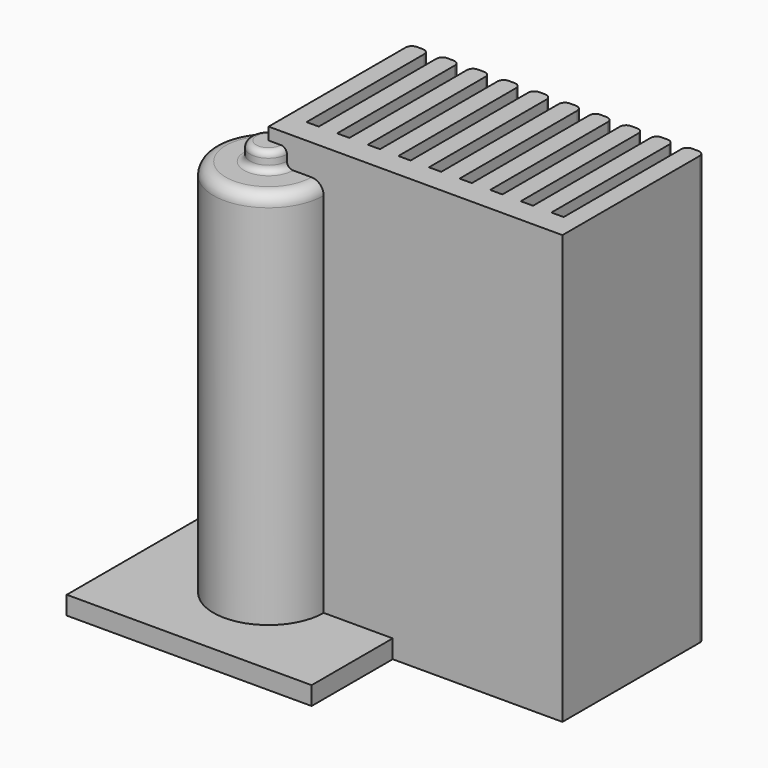
from build123d import *

# Parameters (mm, degrees)
F0_R     = 9
F1_DEPTH = 65
F2_R     = 2
F3_R     = 3
F4_DEPTH = 3
F5_R     = 1
F6_W     = 40
F6_H     = 40
F7_DEPTH = 3
F9_DEPTH = 70


with BuildPart() as f1:
    # F0 (on Top) → F1 (new body)
    with BuildSketch(Plane.XY):
        Circle(F0_R)
    extrude(amount=F1_DEPTH)

    # F2
    f2_edges = [f1.edges().sort_by_distance(p)[0] for p in [
        (-9, 0, 0),
        (-9, 0, 65),
    ]]
    fillet(f2_edges, radius=F2_R)

    # F3 (on face) → F4 (join)
    with BuildSketch(Plane.XY.offset(65)):
        Circle(F3_R)
    extrude(amount=F4_DEPTH)

    # F5
    f5_edges = [f1.edges().sort_by_distance(p)[0] for p in [
        (3, 0, 66.5),
        (-3, 0, 65),
        (-3, 0, 68),
        (-7, 0, 65),
    ]]
    fillet(f5_edges, radius=F5_R)


with BuildPart() as f7:
    # F6 (on Top) → F7 (new body)
    with BuildSketch(Plane.XY):
        with Locations((0.2787616104, 3.4393036376)):
            Rectangle(F6_W, F6_H)
    extrude(amount=F7_DEPTH)


with BuildPart() as f9:
    # F8 (on Top) → F9 (new body)
    with BuildSketch(Plane.XY):
        Polygon((0, 4), (0, 0), (48, 0), (48, 4), (45, 4), (43, 4), (40, 4), (38, 4), (35, 4), (33, 4), (30, 4), (28, 4), (25, 4), (23, 4), (20, 4), (18, 4), (15, 4), (13, 4), (10, 4), (8, 4), (5, 4), (3, 4), align=None)
        with BuildLine():
            Line((5, 28), (5, 4))
            Line((5, 4), (8, 4))
            Line((8, 4), (8, 28))
            ThreePointArc((8, 28), (7.7071067812, 28.7071067812), (7, 29))
            Line((7, 29), (6, 29))
            ThreePointArc((6, 29), (5.2928932188, 28.7071067812), (5, 28))
        make_face()
        with BuildLine():
            Line((15, 28), (15, 4))
            Line((15, 4), (18, 4))
            Line((18, 4), (18, 28))
            ThreePointArc((18, 28), (17.7071067812, 28.7071067812), (17, 29))
            Line((17, 29), (16, 29))
            ThreePointArc((16, 29), (15.2928932188, 28.7071067812), (15, 28))
        make_face()
        with BuildLine():
            Line((20, 28), (20, 4))
            Line((20, 4), (23, 4))
            Line((23, 4), (23, 28))
            ThreePointArc((23, 28), (22.7071067812, 28.7071067812), (22, 29))
            Line((22, 29), (21, 29))
            ThreePointArc((21, 29), (20.2928932188, 28.7071067812), (20, 28))
        make_face()
        with BuildLine():
            Line((25, 4), (28, 4))
            Line((28, 4), (28, 28))
            ThreePointArc((28, 28), (27.7071067812, 28.7071067812), (27, 29))
            Line((27, 29), (26, 29))
            ThreePointArc((26, 29), (25.2928932188, 28.7071067812), (25, 28))
            Line((25, 28), (25, 4))
        make_face()
        with BuildLine():
            Line((30, 4), (33, 4))
            Line((33, 4), (33, 28))
            ThreePointArc((33, 28), (32.7071067812, 28.7071067812), (32, 29))
            Line((32, 29), (31, 29))
            ThreePointArc((31, 29), (30.2928932188, 28.7071067812), (30, 28))
            Line((30, 28), (30, 4))
        make_face()
        with BuildLine():
            Line((35, 4), (38, 4))
            Line((38, 4), (38, 28))
            ThreePointArc((38, 28), (37.7071067812, 28.7071067812), (37, 29))
            Line((37, 29), (36, 29))
            ThreePointArc((36, 29), (35.2928932188, 28.7071067812), (35, 28))
            Line((35, 28), (35, 4))
        make_face()
        with BuildLine():
            Line((40, 4), (43, 4))
            Line((43, 4), (43, 28))
            ThreePointArc((43, 28), (42.7071067812, 28.7071067812), (42, 29))
            Line((42, 29), (41, 29))
            ThreePointArc((41, 29), (40.2928932188, 28.7071067812), (40, 28))
            Line((40, 28), (40, 4))
        make_face()
        with BuildLine():
            Line((45, 4), (48, 4))
            Line((48, 4), (48, 28))
            ThreePointArc((48, 28), (47.7071067812, 28.7071067812), (47, 29))
            Line((47, 29), (46, 29))
            ThreePointArc((46, 29), (45.2928932188, 28.7071067812), (45, 28))
            Line((45, 28), (45, 4))
        make_face()
        with BuildLine():
            Line((10, 28), (10, 4))
            Line((10, 4), (13, 4))
            Line((13, 4), (13, 28))
            ThreePointArc((13, 28), (12.7071067812, 28.7071067812), (12, 29))
            Line((12, 29), (11, 29))
            ThreePointArc((11, 29), (10.2928932188, 28.7071067812), (10, 28))
        make_face()
        with BuildLine():
            Line((0, 28), (0, 4))
            Line((0, 4), (3, 4))
            Line((3, 4), (3, 28))
            ThreePointArc((3, 28), (2.7071067812, 28.7071067812), (2, 29))
            Line((2, 29), (1, 29))
            ThreePointArc((1, 29), (0.2928932188, 28.7071067812), (0, 28))
        make_face()
    extrude(amount=F9_DEPTH)


solid = Compound([f1.part, f7.part, f9.part])
